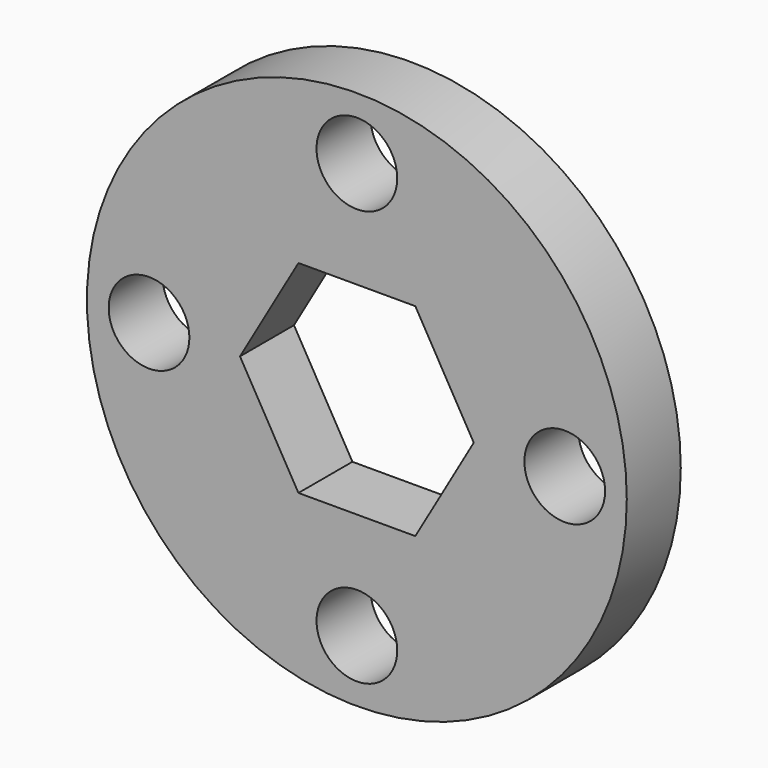
from build123d import *

# Parameters (mm, degrees)
F0_R     = 12.7
F0_R_2   = 1.89865
F1_DEPTH = 3.175


with BuildPart() as f1:
    # F0 (on Front) → F1 (new body)
    with BuildSketch(Plane.XZ):
        Circle(F0_R)
        with Locations((0, -9.779)):
            Circle(F0_R_2, mode=Mode.SUBTRACT)
        with Locations((-9.779, 0)):
            Circle(F0_R_2, mode=Mode.SUBTRACT)
        Polygon((-5.499261, 0), (-2.749631, 4.7625), (2.749631, 4.7625), (5.499261, 0), (2.749631, -4.7625), (-2.749631, -4.7625), align=None, mode=Mode.SUBTRACT)
        with Locations((9.779, 0)):
            Circle(F0_R_2, mode=Mode.SUBTRACT)
        with Locations((0, 9.779)):
            Circle(F0_R_2, mode=Mode.SUBTRACT)
    extrude(amount=F1_DEPTH)


solid = f1.part
